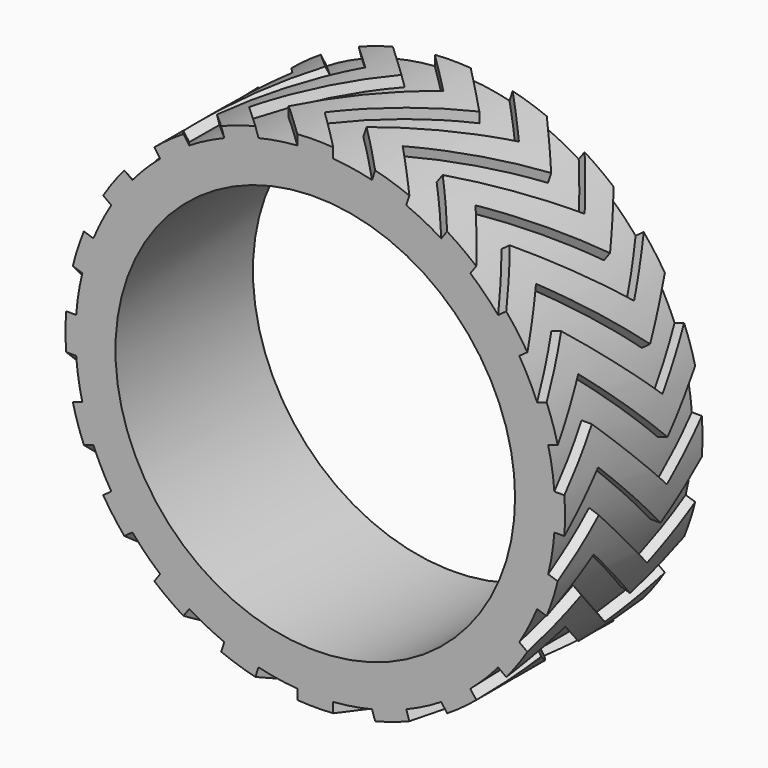
from build123d import *

# Parameters (mm, degrees)
SKETCH005_R           = 24
SKETCH005_R_2         = 20
PAD004_DEPTH          = 8.6
PAD004_DEPTH_BACK     = 8.6
PAD005_START          = 21
PAD005_DEPTH          = 4
POLARPATTERN001_COUNT = 20
SKETCH019_R           = 27.5
SKETCH019_R_2         = 25
POCKET009_DEPTH       = 17.201


with BuildPart() as part:
    # Sketch005 → Pad004 (new body, two sides)
    with BuildSketch(Plane.XZ) as pad004_sk:
        Circle(SKETCH005_R)
        Circle(SKETCH005_R_2, mode=Mode.SUBTRACT)
    extrude(amount=PAD004_DEPTH)
    extrude(pad004_sk.sketch, amount=-PAD004_DEPTH_BACK)

    # Sketch006 → Pad005 (join)
    with BuildSketch(Plane.XY.offset(PAD005_START)):
        Polygon((-1.8, 0), (2.5, 4.3), (-1.8, 8.6), (1.8, 8.6), (6.1, 4.3), (1.8, 0), (-2.5, -4.3), (1.8, -8.6), (-1.8, -8.6), (-6.1, -4.3), align=None)
    pad005 = extrude(amount=PAD005_DEPTH)

    # PolarPattern001: Pad005 ×20 about axis
    polarpattern001_axis = Axis((0, 0, 0), (0, 1, 0))
    for i in range(1, POLARPATTERN001_COUNT):
        add(pad005.rotate(polarpattern001_axis, i * 360 / POLARPATTERN001_COUNT))

    # Sketch019 (on Face161 of PolarPattern001) → Pocket009 (cut, through all)
    with BuildSketch(Plane(origin=(0, 8.6, 0), x_dir=(1, 0, 0), z_dir=(0, 1, 0))):
        Circle(SKETCH019_R)
        Circle(SKETCH019_R_2, mode=Mode.SUBTRACT)
    extrude(amount=-POCKET009_DEPTH, mode=Mode.SUBTRACT)


with BuildPart() as part_1:
    # Body001 placement: moved
    add(part.part.moved(Location((0, 60, 0))))


solid = part_1.part
